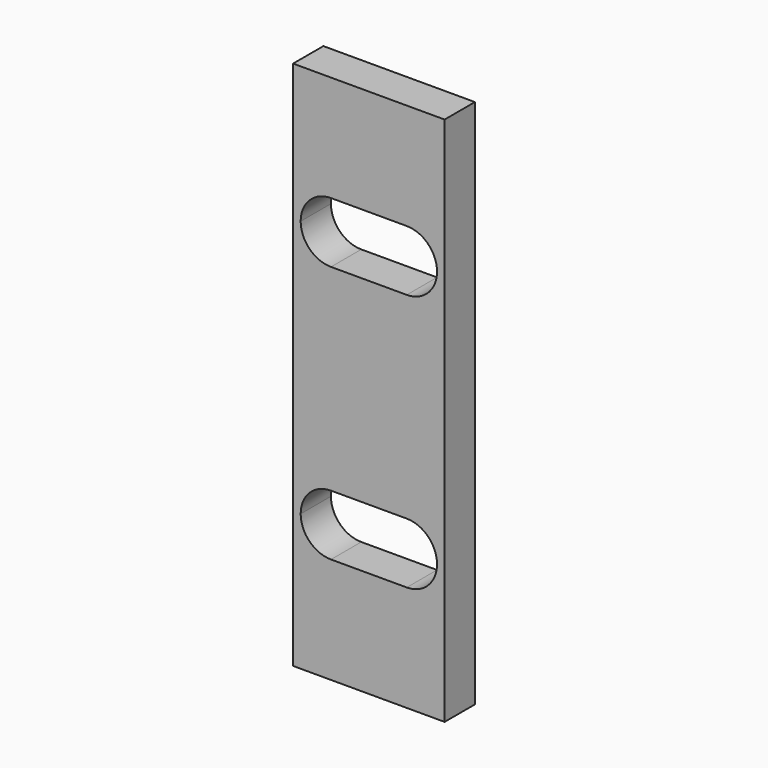
from build123d import *

# Parameters (mm, degrees)
F0_W     = 25.4
F0_H     = 63.5
F1_DEPTH = 6.35
F2_W     = 25.4
F2_H     = 6.35
F3_DEPTH = 82.55
F5_DEPTH = 25.4
F6_W     = 57.15
F6_H     = 6.35
F7_DEPTH = 25.4


with BuildPart() as f1:
    # F0 (on Top) → F1 (new body)
    with BuildSketch(Plane.XY):
        with Locations((4.9058877259, -6.6879848838)):
            Rectangle(F0_W, F0_H)
    extrude(amount=F1_DEPTH)

    # F2 (on face) → F3 (join)
    with BuildSketch(Plane(origin=(0, 0, 0), x_dir=(1, 0, 0), z_dir=(0, 0, -1))):
        with Locations((4.9058877259, -21.8870151162)):
            Rectangle(F2_W, F2_H)
    extrude(amount=F3_DEPTH)

    # F4 (on face) → F5 (cut)
    with BuildSketch(Plane(origin=(0, 25.0620151162, 0), x_dir=(-1, 0, 0), z_dir=(0, 1, 0))):
        with BuildLine():
            Line((-6.1758877259, -16.51), (-11.2558877259, -16.51))
            Line((-11.2558877259, -16.51), (-11.2558877259, -21.59))
            ThreePointArc((-11.2558877259, -21.59), (-7.6637852775, -20.1021024484), (-6.1758877259, -16.51))
        make_face()
        with BuildLine():
            Line((-11.2558877259, -21.59), (-11.2558877259, -16.51))
            Line((-11.2558877259, -16.51), (-16.3358877259, -16.51))
            ThreePointArc((-16.3358877259, -16.51), (-14.8479901744, -20.1021024484), (-11.2558877259, -21.59))
        make_face()
        with BuildLine():
            Line((-11.2558877259, -16.51), (-11.2558877259, -11.43))
            ThreePointArc((-11.2558877259, -11.43), (-14.8479901744, -12.9178975516), (-16.3358877259, -16.51))
            Line((-16.3358877259, -16.51), (-11.2558877259, -16.51))
        make_face()
        with BuildLine():
            Line((1.4441122717, -11.43), (-11.2558877259, -11.43))
            ThreePointArc((-11.2558877259, -11.43), (-7.6637852775, -12.9178975516), (-6.1758877259, -16.51))
            Line((-6.1758877259, -16.51), (-3.6358877259, -16.51))
            ThreePointArc((-3.6358877259, -16.51), (-2.1479901752, -12.9178975524), (1.4441122717, -11.43))
        make_face()
        with BuildLine():
            Line((1.4441122741, -16.51), (1.4441122741, -11.43))
            ThreePointArc((1.4441122717, -11.43), (-2.1479901752, -12.9178975524), (-3.6358877259, -16.51))
            Line((-3.6358877259, -16.51), (1.4441122741, -16.51))
        make_face()
        with BuildLine():
            ThreePointArc((6.5241122741, -16.51), (5.0362147216, -12.9178975507), (1.4441122717, -11.43))
            Line((1.4441122741, -11.43), (1.4441122741, -16.51))
            Line((1.4441122741, -16.51), (6.5241122741, -16.51))
        make_face()
        with BuildLine():
            Line((6.5241122741, -16.51), (1.4441122741, -16.51))
            Line((1.4441122741, -16.51), (1.4441122741, -21.59))
            ThreePointArc((1.4441122741, -21.59), (5.0362147225, -20.1021024484), (6.5241122741, -16.51))
        make_face()
        with BuildLine():
            Line((-3.6358877259, -16.51), (-6.1758877259, -16.51))
            ThreePointArc((-6.1758877259, -16.51), (-7.6637852775, -20.1021024484), (-11.2558877259, -21.59))
            Line((-11.2558877259, -21.59), (1.4441122741, -21.59))
            ThreePointArc((1.4441122741, -21.59), (-2.1479901744, -20.1021024484), (-3.6358877259, -16.51))
        make_face()
        with BuildLine():
            Line((1.4441122741, -21.59), (1.4441122741, -16.51))
            Line((1.4441122741, -16.51), (-3.6358877259, -16.51))
            ThreePointArc((-3.6358877259, -16.51), (-2.1479901744, -20.1021024484), (1.4441122741, -21.59))
        make_face()
        with BuildLine():
            ThreePointArc((-6.1758877259, -16.51), (-7.6637852775, -12.9178975516), (-11.2558877259, -11.43))
            Line((-11.2558877259, -11.43), (-11.2558877259, -16.51))
            Line((-11.2558877259, -16.51), (-6.1758877259, -16.51))
        make_face()
        with BuildLine():
            Line((-11.2558877259, -59.69), (-11.2558877259, -54.61))
            ThreePointArc((-11.2558877221, -54.61), (-14.847990173, -56.0978975502), (-16.3358877259, -59.69))
            Line((-16.3358877259, -59.69), (-11.2558877259, -59.69))
        make_face()
        with BuildLine():
            ThreePointArc((-6.1758877259, -59.69), (-7.6637852762, -56.0978975529), (-11.2558877221, -54.61))
            Line((-11.2558877259, -54.61), (-11.2558877259, -59.69))
            Line((-11.2558877259, -59.69), (-6.1758877259, -59.69))
        make_face()
        with BuildLine():
            Line((-6.1758877259, -59.69), (-11.2558877259, -59.69))
            Line((-11.2558877259, -59.69), (-11.2558877259, -64.77))
            ThreePointArc((-11.2558877259, -64.77), (-7.6637852775, -63.2821024484), (-6.1758877259, -59.69))
        make_face()
        with BuildLine():
            Line((-11.2558877259, -64.77), (-11.2558877259, -59.69))
            Line((-11.2558877259, -59.69), (-16.3358877259, -59.69))
            ThreePointArc((-16.3358877259, -59.69), (-14.8479901744, -63.2821024484), (-11.2558877259, -64.77))
        make_face()
        with BuildLine():
            Line((1.4441122741, -54.61), (-11.2558877221, -54.61))
            ThreePointArc((-11.2558877221, -54.61), (-7.6637852762, -56.0978975529), (-6.1758877259, -59.69))
            Line((-6.1758877259, -59.69), (-3.6358877259, -59.69))
            ThreePointArc((-3.6358877259, -59.69), (-2.1479901744, -56.0978975516), (1.4441122741, -54.61))
        make_face()
        with BuildLine():
            Line((1.4441122741, -59.69), (1.4441122741, -54.61))
            ThreePointArc((1.4441122741, -54.61), (-2.1479901744, -56.0978975516), (-3.6358877259, -59.69))
            Line((-3.6358877259, -59.69), (1.4441122741, -59.69))
        make_face()
        with BuildLine():
            Line((1.4441122741, -64.77), (1.4441122741, -59.69))
            Line((1.4441122741, -59.69), (-3.6358877259, -59.69))
            ThreePointArc((-3.6358877259, -59.69), (-2.1479901744, -63.2821024484), (1.4441122741, -64.77))
        make_face()
        with BuildLine():
            Line((-3.6358877259, -59.69), (-6.1758877259, -59.69))
            ThreePointArc((-6.1758877259, -59.69), (-7.6637852775, -63.2821024484), (-11.2558877259, -64.77))
            Line((-11.2558877259, -64.77), (1.4441122741, -64.77))
            ThreePointArc((1.4441122741, -64.77), (-2.1479901744, -63.2821024484), (-3.6358877259, -59.69))
        make_face()
        with BuildLine():
            ThreePointArc((6.5241122741, -59.69), (5.0362147225, -56.0978975516), (1.4441122741, -54.61))
            Line((1.4441122741, -54.61), (1.4441122741, -59.69))
            Line((1.4441122741, -59.69), (6.5241122741, -59.69))
        make_face()
        with BuildLine():
            Line((6.5241122741, -59.69), (1.4441122741, -59.69))
            Line((1.4441122741, -59.69), (1.4441122741, -64.77))
            ThreePointArc((1.4441122741, -64.77), (5.0362147225, -63.2821024484), (6.5241122741, -59.69))
        make_face()
    extrude(amount=-F5_DEPTH, mode=Mode.SUBTRACT)

    # F6 (on face) → F7 (cut)
    with BuildSketch(Plane(origin=(-7.7941122741, 0, 0), x_dir=(0, -1, 0), z_dir=(-1, 0, 0))):
        with Locations((9.8629848838, 3.175)):
            Rectangle(F6_W, F6_H)
    extrude(amount=-F7_DEPTH, mode=Mode.SUBTRACT)


solid = f1.part
